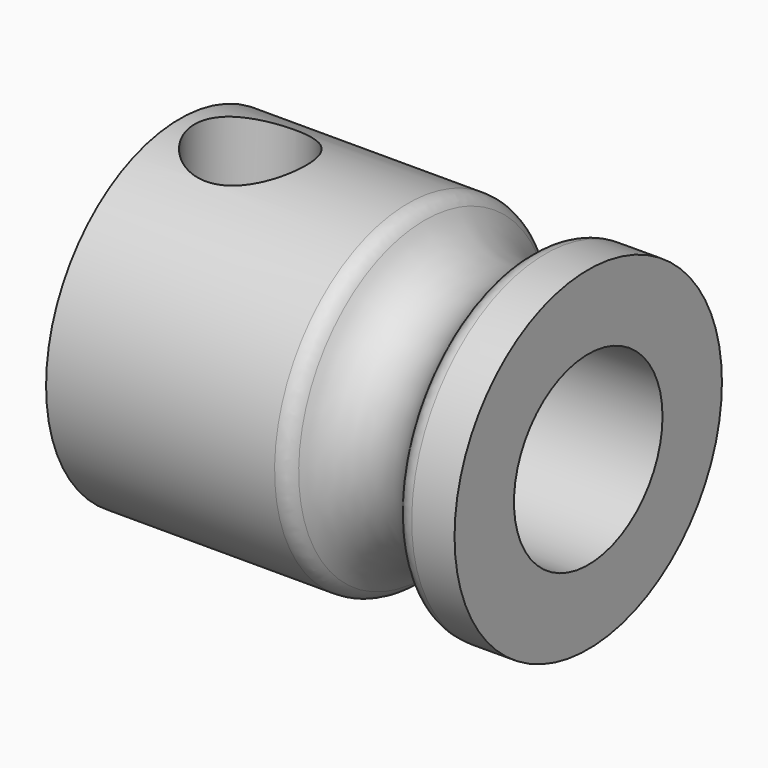
from build123d import *

# Parameters (mm, degrees)
SKETCH240_R             = 4.5
SKETCH240_R_2           = 2.5
PAD102_DEPTH            = 11
SKETCH241_R             = 1.5
POCKET047_DEPTH         = 5
SKETCH242_R             = 1.6
FILLET_R                = 0.5
BODY010_PLACEMENT_ANGLE = 90


with BuildPart() as part:
    # Sketch240 → Pad102 (new body)
    with BuildSketch(Plane.XZ):
        Circle(SKETCH240_R)
        Circle(SKETCH240_R_2, mode=Mode.SUBTRACT)
    extrude(amount=PAD102_DEPTH)

    # Sketch241 (on DatumPlane) → Pocket047 (cut)
    with BuildSketch(Plane.XY.offset(5)):
        with Locations((0, -1.9)):
            Circle(SKETCH241_R)
    extrude(amount=-POCKET047_DEPTH, mode=Mode.SUBTRACT)

    # Sketch242 (on DatumPlane) → Groove (revolve, cut)
    with BuildSketch(Plane.XY):
        with Locations((5, -8)):
            Circle(SKETCH242_R)
    revolve(axis=Axis((0, 0, 0), (0, 1, 0)), mode=Mode.SUBTRACT)

    # Fillet
    fillet_edges = [part.edges().sort_by_distance(p)[0] for p in [
        (-4.5, -9.519868, 0),
        (-4.5, -6.480132, 0),
    ]]
    fillet(fillet_edges, radius=FILLET_R)


with BuildPart() as part_1:
    # Body010 placement: moved
    add(part.part.moved(Location((15.12, 4.94, 111.21))).rotate(Axis((15.12, 4.94, 111.21), (0, 0, 1)), BODY010_PLACEMENT_ANGLE))


solid = part_1.part
